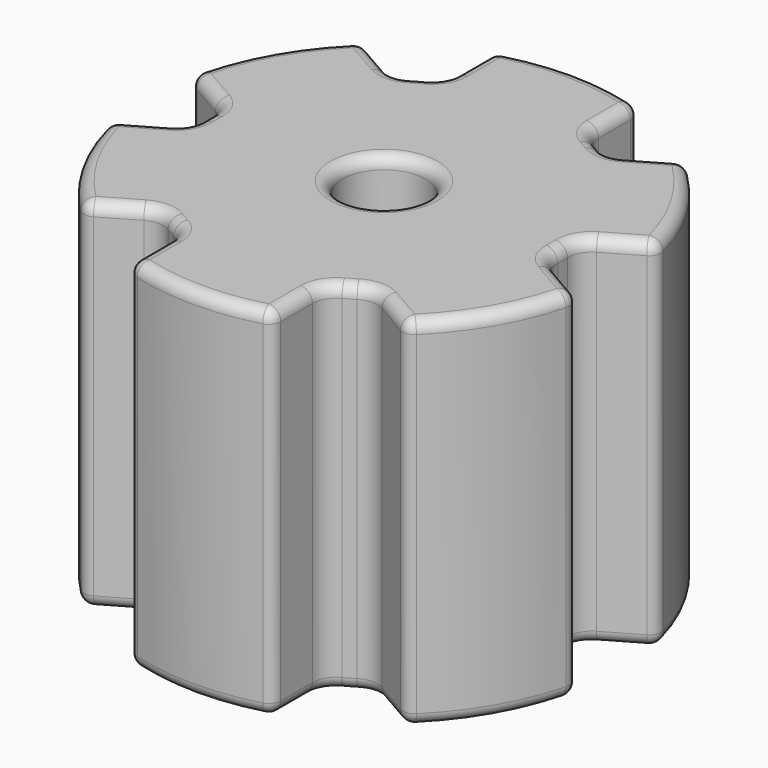
from build123d import *

# Parameters (mm, degrees)
F0_R     = 4.445
F1_DEPTH = 38.1
F2_R     = 1.27


with BuildPart() as f1:
    # F0 (on Top) → F1 (new body)
    with BuildSketch(Plane.XY):
        with BuildLine():
            ThreePointArc((7.62, 23.2794845304), (7.3592936561, 24.0503452933), (6.6842105263, 24.5047205583))
            ThreePointArc((6.6842105263, 24.5047205583), (0, 25.4), (-6.6842105263, 24.5047205583))
            ThreePointArc((-6.6842105263, 24.5047205583), (-7.3592936561, 24.0503452933), (-7.62, 23.2794845304))
            Line((-7.62, 23.2794845304), (-7.62, 19.05))
            ThreePointArc((-7.62, 19.05), (-7.9819679687, 17.7431807812), (-8.9647058824, 16.8088235294))
            ThreePointArc((-8.9647058824, 16.8088235294), (-9.525, 16.4977839421), (-10.074515243, 16.1680747963))
            ThreePointArc((-10.074515243, 16.1680747963), (-16.4977839421, 9.525), (-19.0392211254, 0.6407487331))
            ThreePointArc((-19.0392211254, 0.6407487331), (-19.05, 0), (-19.0392211254, -0.6407487331))
            ThreePointArc((-19.0392211254, -0.6407487331), (-16.4977839421, -9.525), (-10.074515243, -16.1680747963))
            ThreePointArc((-10.074515243, -16.1680747963), (-9.525, -16.4977839421), (-8.9647058824, -16.8088235294))
            ThreePointArc((-8.9647058824, -16.8088235294), (0, -19.05), (8.9647058824, -16.8088235294))
            ThreePointArc((8.9647058824, -16.8088235294), (9.525, -16.4977839421), (10.074515243, -16.1680747963))
            ThreePointArc((10.074515243, -16.1680747963), (16.4977839421, -9.525), (19.0392211254, -0.6407487331))
            ThreePointArc((19.0392211254, -0.6407487331), (19.05, 0), (19.0392211254, 0.6407487331))
            ThreePointArc((19.0392211254, 0.6407487331), (16.4977839421, 9.525), (10.074515243, 16.1680747963))
            ThreePointArc((10.074515243, 16.1680747963), (9.525, 16.4977839421), (8.9647058824, 16.8088235294))
            ThreePointArc((8.9647058824, 16.8088235294), (7.9819679687, 17.7431807812), (7.62, 19.05))
            Line((7.62, 19.05), (7.62, 23.2794845304))
        make_face()
        Circle(F0_R, mode=Mode.SUBTRACT)
        with BuildLine():
            ThreePointArc((12.6877839421, 16.1241135768), (11.3750613161, 15.7841774237), (10.074515243, 16.1680747963))
            ThreePointArc((10.074515243, 16.1680747963), (16.4977839421, 9.525), (19.0392211254, 0.6407487331))
            ThreePointArc((19.0392211254, 0.6407487331), (19.3570292848, 1.9590033575), (20.3077839421, 2.9258864232))
            Line((20.3077839421, 2.9258864232), (23.9706249903, 5.0406286884))
            ThreePointArc((23.9706249903, 5.0406286884), (24.5078568218, 5.6518373866), (24.5638157793, 6.4636641591))
            ThreePointArc((24.5638157793, 6.4636641591), (21.9970452561, 12.7), (17.879605253, 18.0410563992))
            ThreePointArc((17.879605253, 18.0410563992), (17.1485631657, 18.3985079067), (16.3506249903, 18.238855842))
            Line((16.3506249903, 18.238855842), (12.6877839421, 16.1241135768))
        make_face()
        with BuildLine():
            ThreePointArc((-19.0392211254, 0.6407487331), (-16.4977839421, 9.525), (-10.074515243, 16.1680747963))
            ThreePointArc((-10.074515243, 16.1680747963), (-11.3750613161, 15.7841774237), (-12.6877839421, 16.1241135768))
            Line((-12.6877839421, 16.1241135768), (-16.3506249903, 18.238855842))
            ThreePointArc((-16.3506249903, 18.238855842), (-17.1485631657, 18.3985079067), (-17.879605253, 18.0410563992))
            ThreePointArc((-17.879605253, 18.0410563992), (-21.9970452561, 12.7), (-24.5638157793, 6.4636641591))
            ThreePointArc((-24.5638157793, 6.4636641591), (-24.5078568218, 5.6518373866), (-23.9706249903, 5.0406286884))
            Line((-23.9706249903, 5.0406286884), (-20.3077839421, 2.9258864232))
            ThreePointArc((-20.3077839421, 2.9258864232), (-19.3570292848, 1.9590033575), (-19.0392211254, 0.6407487331))
        make_face()
        with BuildLine():
            ThreePointArc((20.3077839421, -2.9258864232), (19.3570292848, -1.9590033575), (19.0392211254, -0.6407487331))
            ThreePointArc((19.0392211254, -0.6407487331), (16.4977839421, -9.525), (10.074515243, -16.1680747963))
            ThreePointArc((10.074515243, -16.1680747963), (11.3750613161, -15.7841774237), (12.6877839421, -16.1241135768))
            Line((12.6877839421, -16.1241135768), (16.3506249903, -18.238855842))
            ThreePointArc((16.3506249903, -18.238855842), (17.1485631657, -18.3985079067), (17.879605253, -18.0410563992))
            ThreePointArc((17.879605253, -18.0410563992), (21.9970452561, -12.7), (24.5638157793, -6.4636641591))
            ThreePointArc((24.5638157793, -6.4636641591), (24.5078568218, -5.6518373866), (23.9706249903, -5.0406286884))
            Line((23.9706249903, -5.0406286884), (20.3077839421, -2.9258864232))
        make_face()
        with BuildLine():
            ThreePointArc((-10.074515243, -16.1680747963), (-16.4977839421, -9.525), (-19.0392211254, -0.6407487331))
            ThreePointArc((-19.0392211254, -0.6407487331), (-19.3570292848, -1.9590033575), (-20.3077839421, -2.9258864232))
            Line((-20.3077839421, -2.9258864232), (-23.9706249903, -5.0406286884))
            ThreePointArc((-23.9706249903, -5.0406286884), (-24.5078568218, -5.6518373866), (-24.5638157793, -6.4636641591))
            ThreePointArc((-24.5638157793, -6.4636641591), (-21.9970452561, -12.7), (-17.879605253, -18.0410563992))
            ThreePointArc((-17.879605253, -18.0410563992), (-17.1485631657, -18.3985079067), (-16.3506249903, -18.238855842))
            Line((-16.3506249903, -18.238855842), (-12.6877839421, -16.1241135768))
            ThreePointArc((-12.6877839421, -16.1241135768), (-11.3750613161, -15.7841774237), (-10.074515243, -16.1680747963))
        make_face()
        with BuildLine():
            ThreePointArc((7.62, -19.05), (7.9819679687, -17.7431807812), (8.9647058824, -16.8088235294))
            ThreePointArc((8.9647058824, -16.8088235294), (0, -19.05), (-8.9647058824, -16.8088235294))
            ThreePointArc((-8.9647058824, -16.8088235294), (-7.9819679687, -17.7431807812), (-7.62, -19.05))
            Line((-7.62, -19.05), (-7.62, -23.2794845304))
            ThreePointArc((-7.62, -23.2794845304), (-7.3592936561, -24.0503452933), (-6.6842105263, -24.5047205583))
            ThreePointArc((-6.6842105263, -24.5047205583), (0, -25.4), (6.6842105263, -24.5047205583))
            ThreePointArc((6.6842105263, -24.5047205583), (7.3592936561, -24.0503452933), (7.62, -23.2794845304))
            Line((7.62, -23.2794845304), (7.62, -19.05))
        make_face()
    extrude(amount=F1_DEPTH)

    # F2
    f2_edges = [f1.edges().sort_by_distance(p)[0] for p in [
        (7.981968, 17.743181, 38.1),
        (7.62, 21.164742, 38.1),
        (7.359294, 24.050345, 38.1),
        (0, 25.4, 38.1),
        (-7.359294, 24.050345, 38.1),
        (-7.62, 21.164742, 38.1),
        (-7.981968, 17.743181, 38.1),
        (-9.525, 16.497784, 38.1),
        (-11.375061, 15.784177, 38.1),
        (-14.519204, 17.181485, 38.1),
        (-17.148563, 18.398508, 38.1),
        (-21.997045, 12.7, 38.1),
        (-24.507857, 5.651837, 38.1),
        (-22.139204, 3.983258, 38.1),
        (-19.357029, 1.959003, 38.1),
        (-19.05, 0, 38.1),
        (-19.357029, -1.959003, 38.1),
        (-22.139204, -3.983258, 38.1),
        (-24.507857, -5.651837, 38.1),
        (-21.997045, -12.7, 38.1),
        (-17.148563, -18.398508, 38.1),
        (-14.519204, -17.181485, 38.1),
        (-11.375061, -15.784177, 38.1),
        (-9.525, -16.497784, 38.1),
        (-7.981968, -17.743181, 38.1),
        (-7.62, -21.164742, 38.1),
        (-7.359294, -24.050345, 38.1),
        (0, -25.4, 38.1),
        (7.359294, -24.050345, 38.1),
        (7.62, -21.164742, 38.1),
        (7.981968, -17.743181, 38.1),
        (9.525, -16.497784, 38.1),
        (11.375061, -15.784177, 38.1),
        (14.519204, -17.181485, 38.1),
        (17.148563, -18.398508, 38.1),
        (21.997045, -12.7, 38.1),
        (24.507857, -5.651837, 38.1),
        (22.139204, -3.983258, 38.1),
        (19.357029, -1.959003, 38.1),
        (19.05, 0, 38.1),
        (19.357029, 1.959003, 38.1),
        (22.139204, 3.983258, 38.1),
        (24.507857, 5.651837, 38.1),
        (21.997045, 12.7, 38.1),
        (17.148563, 18.398508, 38.1),
        (14.519204, 17.181485, 38.1),
        (11.375061, 15.784177, 38.1),
        (9.525, 16.497784, 38.1),
        (-4.445, 0, 38.1),
        (7.981968, 17.743181, 0),
        (7.62, 21.164742, 0),
        (7.359294, 24.050345, 0),
        (0, 25.4, 0),
        (-7.359294, 24.050345, 0),
        (-7.62, 21.164742, 0),
        (-7.981968, 17.743181, 0),
        (-9.525, 16.497784, 0),
        (-11.375061, 15.784177, 0),
        (-14.519204, 17.181485, 0),
        (-17.148563, 18.398508, 0),
        (-21.997045, 12.7, 0),
        (-24.507857, 5.651837, 0),
        (-22.139204, 3.983258, 0),
        (-19.357029, 1.959003, 0),
        (-19.05, 0, 0),
        (-19.357029, -1.959003, 0),
        (-22.139204, -3.983258, 0),
        (-24.507857, -5.651837, 0),
        (-21.997045, -12.7, 0),
        (-17.148563, -18.398508, 0),
        (-14.519204, -17.181485, 0),
        (-11.375061, -15.784177, 0),
        (-9.525, -16.497784, 0),
        (-7.981968, -17.743181, 0),
        (-7.62, -21.164742, 0),
        (-7.359294, -24.050345, 0),
        (0, -25.4, 0),
        (7.359294, -24.050345, 0),
        (7.62, -21.164742, 0),
        (7.981968, -17.743181, 0),
        (9.525, -16.497784, 0),
        (11.375061, -15.784177, 0),
        (14.519204, -17.181485, 0),
        (17.148563, -18.398508, 0),
        (21.997045, -12.7, 0),
        (24.507857, -5.651837, 0),
        (22.139204, -3.983258, 0),
        (19.357029, -1.959003, 0),
        (19.05, 0, 0),
        (19.357029, 1.959003, 0),
        (22.139204, 3.983258, 0),
        (24.507857, 5.651837, 0),
        (21.997045, 12.7, 0),
        (17.148563, 18.398508, 0),
        (14.519204, 17.181485, 0),
        (11.375061, 15.784177, 0),
        (9.525, 16.497784, 0),
        (-4.445, 0, 0),
    ]]
    fillet(f2_edges, radius=F2_R)


solid = f1.part
